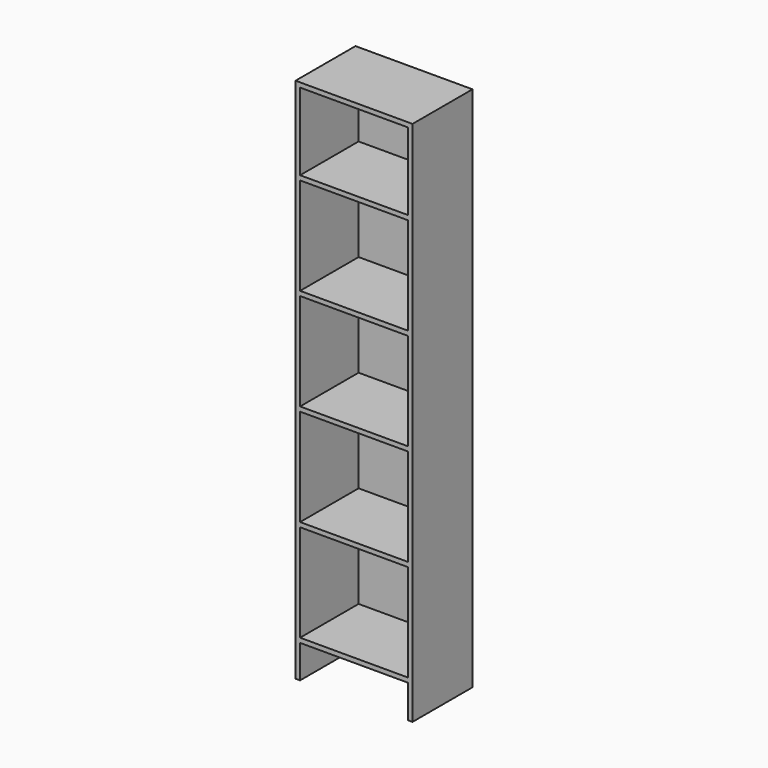
from build123d import *

# Parameters (mm, degrees)
F0_W     = 374.65
F0_H     = 337.693
F0_H_2   = 268.047813
F1_DEPTH = 254
F2_W     = 406.4
F2_H     = 1828.8
F3_DEPTH = 6.35


with BuildPart() as f1:
    # F0 (on Front) → F1 (new body)
    with BuildSketch(Plane.XZ):
        Polygon((-15.875, 0), (0, 0), (0, 1828.8), (-15.875, 1828.8), (-390.525, 1828.8), (-406.4, 1828.8), (-406.4, 0), (-390.525, 0), (-390.525, 114.730187), (-15.875, 114.730187), align=None)
        with Locations((-203.2, 299.451687)):
            Rectangle(F0_W, F0_H, mode=Mode.SUBTRACT)
        with Locations((-203.2, 653.019687)):
            Rectangle(F0_W, F0_H, mode=Mode.SUBTRACT)
        with Locations((-203.2, 1006.587687)):
            Rectangle(F0_W, F0_H, mode=Mode.SUBTRACT)
        with Locations((-203.2, 1360.155687)):
            Rectangle(F0_W, F0_H, mode=Mode.SUBTRACT)
        with Locations((-203.2, 1678.901093)):
            Rectangle(F0_W, F0_H_2, mode=Mode.SUBTRACT)
    extrude(amount=F1_DEPTH)

    # F2 (on face) → F3 (join)
    with BuildSketch(Plane(origin=(0, 0, 0), x_dir=(-1, 0, 0), z_dir=(0, 1, 0))):
        with Locations((203.2, 914.4)):
            Rectangle(F2_W, F2_H)
    extrude(amount=F3_DEPTH)


solid = f1.part
